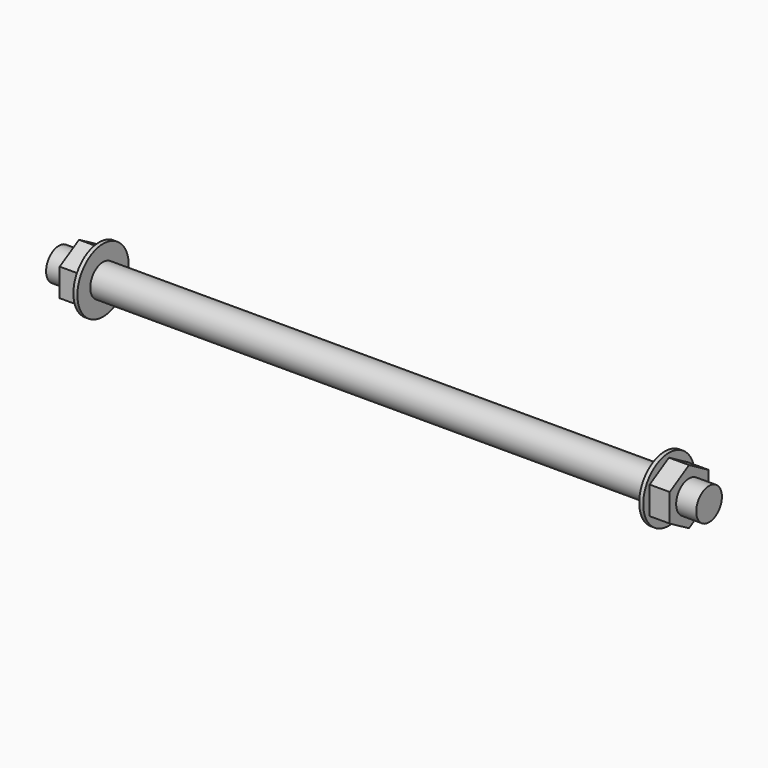
from build123d import *

# Parameters (mm, degrees)
F0_R      = 4
F1_DEPTH  = 69.977
F2_R      = 8
F3_DEPTH  = 1
F5_DEPTH  = 5
F6_R      = 4
F7_DEPTH  = 5
F8_R      = 8
F9_DEPTH  = 1
F11_DEPTH = 5
F12_R     = 4
F13_DEPTH = 5


with BuildPart() as f1:
    # F0 (on Right) → F1 (new body, symmetric)
    with BuildSketch(Plane.YZ):
        Circle(F0_R)
    extrude(amount=F1_DEPTH, both=True)

    # F2 (on face) → F3 (join)
    with BuildSketch(Plane.YZ.offset(69.977)):
        Circle(F2_R)
    extrude(amount=F3_DEPTH)

    # F4 (on face) → F5 (join)
    with BuildSketch(Plane.YZ.offset(70.977)):
        Polygon((6, 3.4641016151), (0, 6.9282032303), (-6, 3.4641016151), (-6, -3.4641016151), (0, -6.9282032303), (6, -3.4641016151), align=None)
    extrude(amount=F5_DEPTH)

    # F6 (on face) → F7 (join)
    with BuildSketch(Plane.YZ.offset(75.977)):
        Circle(F6_R)
    extrude(amount=F7_DEPTH)

    # F8 (on face) → F9 (join)
    with BuildSketch(Plane(origin=(-69.977, 0, 0), x_dir=(0, -1, 0), z_dir=(-1, 0, 0))):
        Circle(F8_R)
    extrude(amount=F9_DEPTH)

    # F10 (on face) → F11 (join)
    with BuildSketch(Plane(origin=(-70.977, 0, 0), x_dir=(0, -1, 0), z_dir=(-1, 0, 0))):
        Polygon((0, -6.9282032303), (6, -3.4641016151), (6, 3.4641016151), (0, 6.9282032303), (-6, 3.4641016151), (-6, -3.4641016151), align=None)
    extrude(amount=F11_DEPTH)

    # F12 (on face) → F13 (join)
    with BuildSketch(Plane(origin=(-75.977, 0, 0), x_dir=(0, -1, 0), z_dir=(-1, 0, 0))):
        Circle(F12_R)
    extrude(amount=F13_DEPTH)


solid = f1.part
